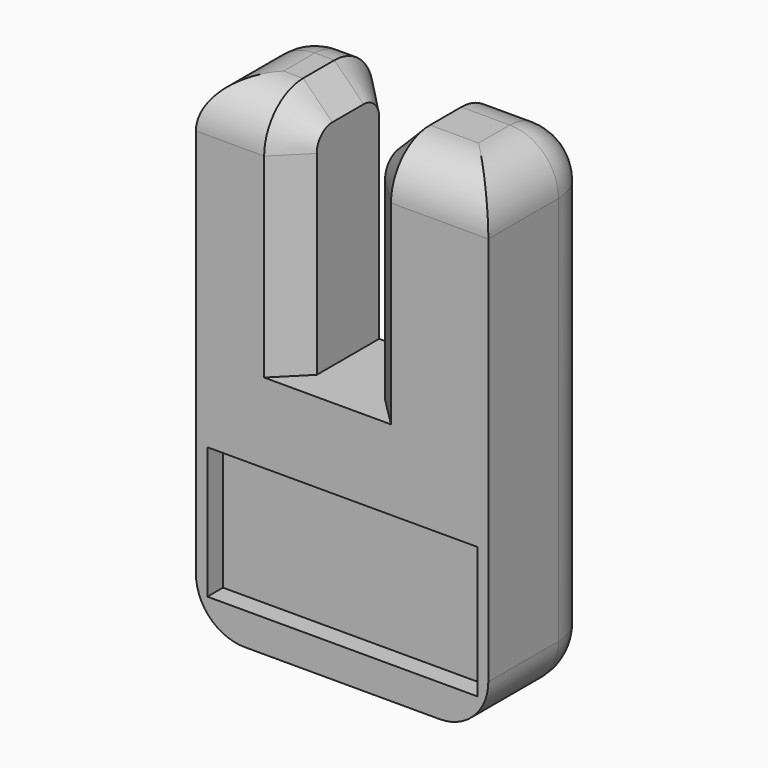
from build123d import *

# Parameters (mm, degrees)
F0_W     = 27.7
F0_H     = 13.5
F1_DEPTH = 14
F2_R     = 5
F4_W     = 27.7
F4_H     = 13.5
F5_DEPTH = 2
F6_SIZE  = 3


with BuildPart() as f1:
    # F0 (on Front) → F1 (new body)
    with BuildSketch(Plane.XZ):
        Polygon((-13.2842407189, 29.1734449556), (-13.2842407189, -20.8265550444), (16.7157592811, -20.8265550444), (16.7157592811, 29.1734449556), (3.7307592811, 29.1734449556), (3.7307592811, 4.1734449556), (-3.2842407189, 4.1734449556), (-3.2842407189, 29.1734449556), align=None)
        with Locations((1.7157592811, -10.8674009684)):
            Rectangle(F0_W, F0_H, mode=Mode.SUBTRACT)
        with Locations((1.7157592811, -10.8674009684)):
            Rectangle(F0_W, F0_H)
    extrude(amount=F1_DEPTH)

    # F2
    f2_edges = [f1.edges().sort_by_distance(p)[0] for p in [
        (1.715759, 0, -20.826555),
        (-13.284241, 0, 4.173445),
        (16.715759, 0, 4.173445),
        (16.715759, -7, -20.826555),
        (-13.284241, -7, -20.826555),
        (-8.284241, 0, 29.173445),
        (10.223259, 0, 29.173445),
        (-13.284241, -7, 29.173445),
        (16.715759, -7, 29.173445),
        (10.223259, -14, 29.173445),
        (-8.284241, -14, 29.173445),
    ]]
    fillet(f2_edges, radius=F2_R)

    # F4 (on face) → F5 (cut)
    with BuildSketch(Plane.XZ.offset(14)):
        with Locations((1.7414525137, -10.761866346)):
            Rectangle(F4_W, F4_H)
    extrude(amount=-F5_DEPTH, mode=Mode.SUBTRACT)

    # F6
    f6_edges = [f1.edges().sort_by_distance(p)[0] for p in [
        (-3.284241, 0, 14.173445),
        (3.730759, 0, 14.173445),
        (0.223259, 0, 4.173445),
    ]]
    chamfer(f6_edges, length=F6_SIZE)


solid = f1.part
